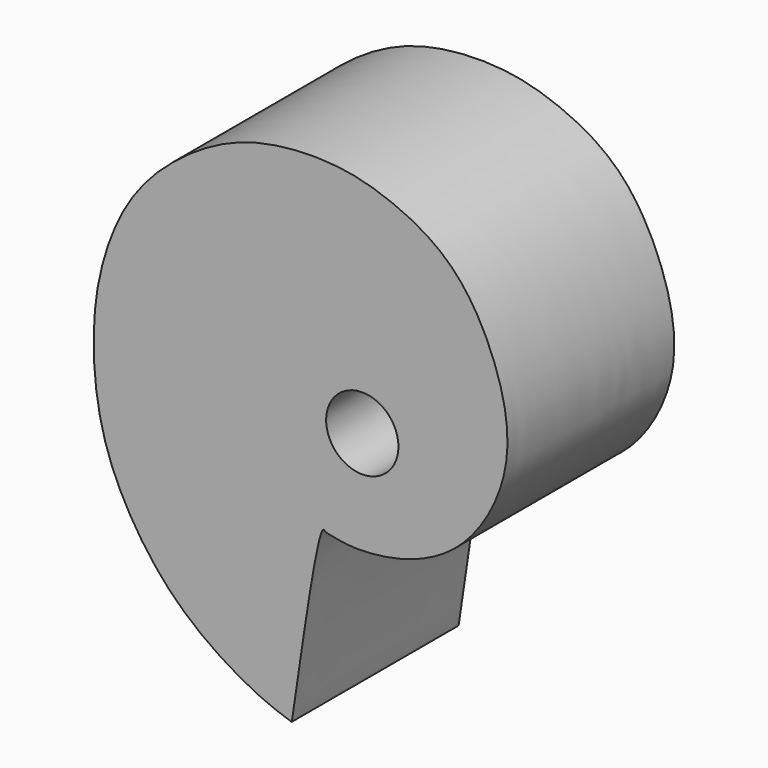
from build123d import *

# Parameters (mm, degrees)
F0_R     = 3.302
F1_DEPTH = 19.05


with BuildPart() as f1:
    # F0 (on Front) → F1 (new body)
    with BuildSketch(Plane.XZ):
        with BuildLine():
            add(Edge.make_bspline(
                [(1.262495439, -24.1829701894), (0.5388171757, -24.8598039416), (-1.5102056157, -40.5773616836), (-1.6292696238, -40.5698267297), (-3.8499615412, -39.8319155336), (-7.7212412565, -37.8713994399), (-13.607569843, -33.5187527843), (-19.0316937889, -24.7335070621), (-19.9462366722, -16.0369693608), (-19.2531829888, -9.7583205462), (-16.9743481134, -3.7480980292), (-12.9789562326, 0.9067558154), (-6.2929950269, 5.2589117293), (1.7313754738, 5.879020735), (7.2281092759, 4.5689348271), (13.4545367328, 1.3792835843), (17.4426676047, -5.7393964048), (18.9277358648, -13.8588109024), (14.4412571431, -21.9602273728), (8.2221944086, -24.5796006639), (3.9421455983, -24.785417065), (2.4697890279, -24.4809408568), (1.5335488334, -24.3107525192), (1.4511926954, -24.2677911489), (1.3403492441, -24.1101559491), (1.262495439, -24.1829701894)],
                knots=[0, 0, 0, 0, 0.0803047111, 0.0851860076, 0.1124519427, 0.1545312541, 0.2076583242, 0.2707491396, 0.3286365219, 0.3779367774, 0.4269446795, 0.4754587023, 0.5306744159, 0.5857637051, 0.6324546945, 0.683241406, 0.7387141282, 0.7945460274, 0.8523434743, 0.9030556329, 0.942828789, 0.9671853648, 0.9850078655, 0.991360764, 1, 1, 1, 1], degree=3))
        make_face()
        with Locations((4.8539172362, -15.255956356)):
            Circle(F0_R, mode=Mode.SUBTRACT)
    extrude(amount=F1_DEPTH)


solid = f1.part
